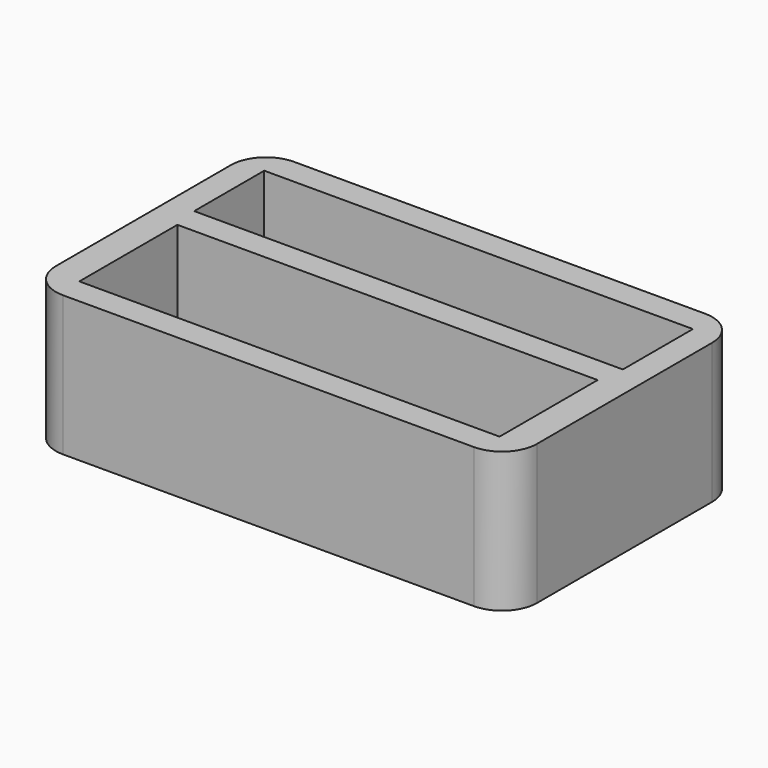
from build123d import *

# Parameters (mm, degrees)
F0_W     = 13.74
F0_H     = 8.25
F0_W_2   = 12
F0_H_2   = 3.5
F0_W_3   = 12.24
F0_H_3   = 2.5
F1_DEPTH = 4
F2_R     = 1


with BuildPart() as f1:
    # F0 (on Top) → F1 (new body)
    with BuildSketch(Plane.XY):
        with Locations((6.87, 4.125)):
            Rectangle(F0_W, F0_H)
        with Locations((6.87, 2.5)):
            Rectangle(F0_W_2, F0_H_2, mode=Mode.SUBTRACT)
        with Locations((6.87, 6.25)):
            Rectangle(F0_W_3, F0_H_3, mode=Mode.SUBTRACT)
    extrude(amount=F1_DEPTH)

    # F2
    f2_edges = [f1.edges().sort_by_distance(p)[0] for p in [
        (0, 0, 2),
        (13.74, 0, 2),
        (13.74, 8.25, 2),
        (0, 8.25, 2),
    ]]
    fillet(f2_edges, radius=F2_R)


solid = f1.part
